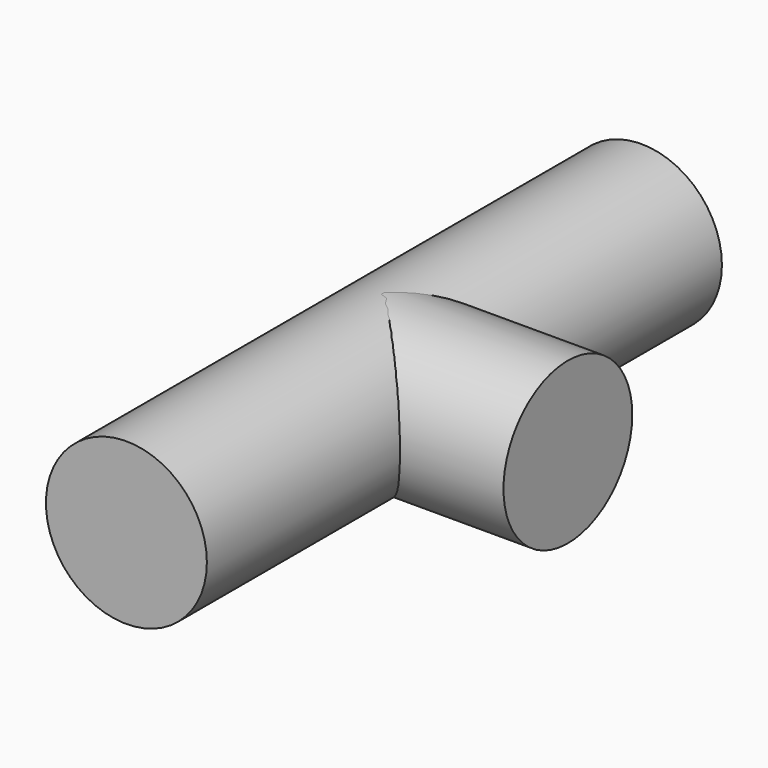
from build123d import *

# Parameters (mm, degrees)
F0_R     = 22.225
F1_DEPTH = 88.9
F2_R     = 22.225
F3_DEPTH = 50.8


with BuildPart() as f1:
    # F0 (on Front) → F1 (new body, symmetric)
    with BuildSketch(Plane.XZ):
        Circle(F0_R)
    extrude(amount=F1_DEPTH, both=True)


with BuildPart() as f3:
    # F2 (on Right) → F3 (new body)
    with BuildSketch(Plane.YZ):
        Circle(F2_R)
    extrude(amount=F3_DEPTH)


solid = Compound([f1.part, f3.part])
